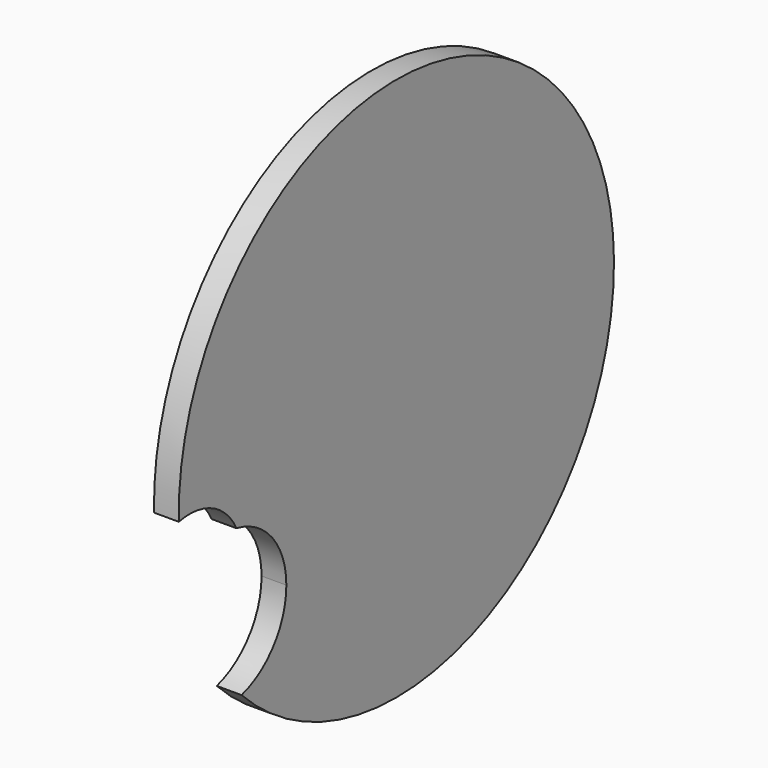
from build123d import *

# Parameters (mm, degrees)
F1_DEPTH = 25.4


with BuildPart() as f1:
    # F0 (on Right) → F1 (new body)
    with BuildSketch(Plane.YZ):
        with BuildLine():
            ThreePointArc((-71.6937970657, 98.7331376187), (-28.6953602222, 93.4844260432), (2.0409978904, 62.96081495))
            ThreePointArc((2.0409978904, 62.96081495), (47.9003888582, 35.8056567558), (65.944661361, -14.3430280358))
            ThreePointArc((65.944661361, -14.3430280358), (49.9921983032, -61.8479501315), (8.6012030284, -90.0965644531))
            ThreePointArc((8.6012030284, -90.0965644531), (312.6009092973, -152.0277906839), (485.3603969818, 105.6647734482))
            ThreePointArc((485.3603969818, 105.6647734482), (203.3240872522, 384.2134328783), (-71.6937970657, 98.7331376187))
        make_face()
    extrude(amount=F1_DEPTH)


solid = f1.part
